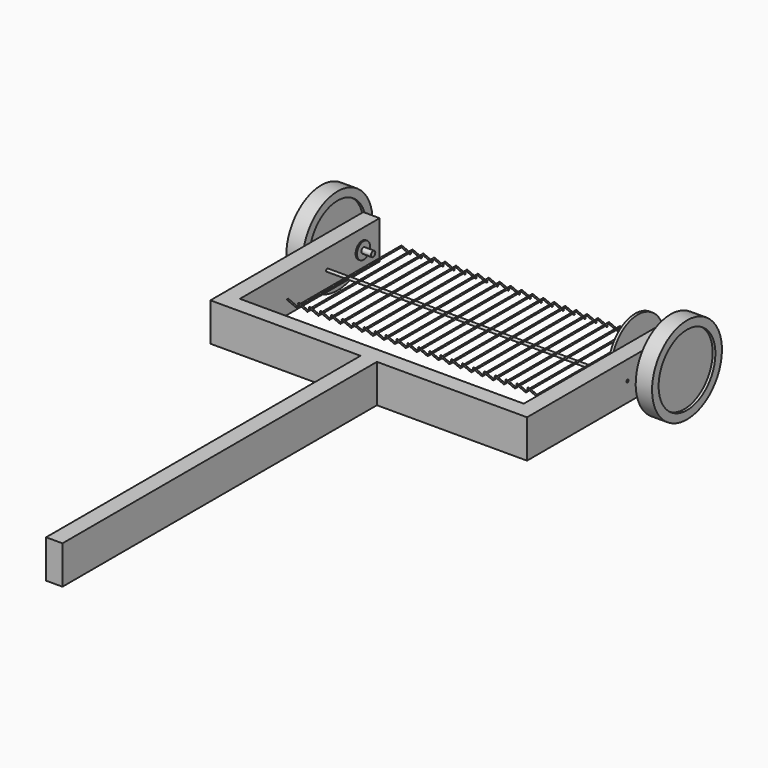
from build123d import *

# Parameters (mm, degrees)
F1_DEPTH       = 44.45
F2_R           = 3.175
F3_DEPTH       = 355.6
F5_R           = 1.5875
F12_R          = 76.2
F13_DEPTH      = 6.35
F14_R          = 3.175
F14_R_2        = 6.35
F15_DEPTH      = 368.3
F15_DEPTH_BACK = 368.3


with BuildPart() as f1:
    # F0 (on Top) → F1 (new body, symmetric)
    with BuildSketch(Plane.XY):
        Polygon((-330.2, 152.4), (-368.3, 152.4), (-368.3, -292.1), (-19.05, -292.1), (-19.05, -1206.5), (19.05, -1206.5), (19.05, -292.1), (368.3, -292.1), (368.3, 152.4), (330.2, 152.4), (330.2, -254), (-330.2, -254), align=None)
    extrude(amount=F1_DEPTH, both=True)

    # F14 (on Right) → F15 (cut, two sides)
    with BuildSketch(Plane.YZ) as f15_sk:
        Circle(F14_R)
        with Locations((101.6, 0)):
            Circle(F14_R_2)
    extrude(amount=-F15_DEPTH, mode=Mode.SUBTRACT)
    extrude(f15_sk.sketch, amount=F15_DEPTH_BACK, mode=Mode.SUBTRACT)


with BuildPart() as f3:
    # F2 (on Right) → F3 (new body, symmetric)
    with BuildSketch(Plane.YZ):
        Circle(F2_R)
    extrude(amount=F3_DEPTH, both=True)

    # F6: sweep along a path in F4
    with BuildLine(Plane.YZ) as f6_path:
        Line((177.8, -22.225), (152.4, 3.175))
        Line((152.4, 3.175), (0, 3.175))
    # F5 (on Front) → F6 (sweep)
    with BuildSketch(Plane.XZ):
        with Locations((0, 3.175)):
            Circle(F5_R)
        with Locations((25.4, 3.175)):
            Circle(F5_R)
        with Locations((50.8, 3.175)):
            Circle(F5_R)
        with Locations((76.2, 3.175)):
            Circle(F5_R)
        with Locations((101.6, 3.175)):
            Circle(F5_R)
        with Locations((127, 3.175)):
            Circle(F5_R)
        with Locations((152.4, 3.175)):
            Circle(F5_R)
        with Locations((177.8, 3.175)):
            Circle(F5_R)
        with Locations((203.2, 3.175)):
            Circle(F5_R)
        with Locations((228.6, 3.175)):
            Circle(F5_R)
        with Locations((254, 3.175)):
            Circle(F5_R)
        with Locations((279.4, 3.175)):
            Circle(F5_R)
        with Locations((-25.4, 3.175)):
            Circle(F5_R)
        with Locations((-50.8, 3.175)):
            Circle(F5_R)
        with Locations((-76.2, 3.175)):
            Circle(F5_R)
        with Locations((-101.6, 3.175)):
            Circle(F5_R)
        with Locations((-127, 3.175)):
            Circle(F5_R)
        with Locations((-152.4, 3.175)):
            Circle(F5_R)
        with Locations((-177.8, 3.175)):
            Circle(F5_R)
        with Locations((-203.2, 3.175)):
            Circle(F5_R)
        with Locations((-228.6, 3.175)):
            Circle(F5_R)
        with Locations((-254, 3.175)):
            Circle(F5_R)
        with Locations((-279.4, 3.175)):
            Circle(F5_R)
    sweep(path=f6_path.line, transition=Transition.RIGHT)

    # F8: sweep along a path in F7
    with BuildLine(Plane.YZ) as f8_path:
        Line((0, 3.175), (-152.4, 3.175))
        Line((-152.4, 3.175), (-177.8, 28.575))
    # F5 (on Front) → F8 (sweep)
    with BuildSketch(Plane.XZ):
        with Locations((0, 3.175)):
            Circle(F5_R)
        with Locations((25.4, 3.175)):
            Circle(F5_R)
        with Locations((50.8, 3.175)):
            Circle(F5_R)
        with Locations((76.2, 3.175)):
            Circle(F5_R)
        with Locations((101.6, 3.175)):
            Circle(F5_R)
        with Locations((127, 3.175)):
            Circle(F5_R)
        with Locations((152.4, 3.175)):
            Circle(F5_R)
        with Locations((177.8, 3.175)):
            Circle(F5_R)
        with Locations((203.2, 3.175)):
            Circle(F5_R)
        with Locations((228.6, 3.175)):
            Circle(F5_R)
        with Locations((254, 3.175)):
            Circle(F5_R)
        with Locations((279.4, 3.175)):
            Circle(F5_R)
        with Locations((-25.4, 3.175)):
            Circle(F5_R)
        with Locations((-50.8, 3.175)):
            Circle(F5_R)
        with Locations((-76.2, 3.175)):
            Circle(F5_R)
        with Locations((-101.6, 3.175)):
            Circle(F5_R)
        with Locations((-127, 3.175)):
            Circle(F5_R)
        with Locations((-152.4, 3.175)):
            Circle(F5_R)
        with Locations((-177.8, 3.175)):
            Circle(F5_R)
        with Locations((-203.2, 3.175)):
            Circle(F5_R)
        with Locations((-228.6, 3.175)):
            Circle(F5_R)
        with Locations((-254, 3.175)):
            Circle(F5_R)
        with Locations((-279.4, 3.175)):
            Circle(F5_R)
    sweep(path=f8_path.line, transition=Transition.RIGHT)


with BuildPart() as f11:
    # F10 (on offset) → F11 (revolve)
    with BuildSketch(Plane.XZ.offset(-101.6)):
        Polygon((425.45, 82.55), (425.45, 101.6), (387.35, 101.6), (387.35, 82.55), (393.7, 82.55), (393.7, 6.35), (371.475, 6.35), (371.475, 19.05), (368.3, 19.05), (368.3, 6.35), (330.2, 6.35), (330.2, 19.05), (327.025, 19.05), (327.025, 6.35), (304.8, 6.35), (304.8, 0), (393.7, 0), (419.1, 0), (419.1, 82.55), align=None)
    revolve(axis=Axis((0, 101.6, 0), (-1, 0, 0)))


with BuildPart() as f11b:
    # F10 (on offset) → F11, piece 2 (revolve)
    with BuildSketch(Plane.XZ.offset(-101.6)):
        Polygon((-425.45, 101.6), (-425.45, 82.55), (-419.1, 82.55), (-419.1, 0), (-393.7, 0), (-304.8, 0), (-304.8, 6.35), (-327.025, 6.35), (-327.025, 19.05), (-330.2, 19.05), (-330.2, 6.35), (-368.3, 6.35), (-368.3, 19.05), (-371.475, 19.05), (-371.475, 6.35), (-393.7, 6.35), (-393.7, 82.55), (-387.35, 82.55), (-387.35, 101.6), align=None)
    revolve(axis=Axis((0, 101.6, 0), (-1, 0, 0)))


with BuildPart() as f13:
    # F12 (on face) → F13 (new body)
    with BuildSketch(Plane(origin=(304.8, 0, 0), x_dir=(0, -1, 0), z_dir=(-1, 0, 0))):
        with Locations((-101.6, 0)):
            Circle(F12_R)
    extrude(amount=-F13_DEPTH)


with BuildPart() as f13b:
    # F12 (on face) → F13, piece 2 (new body)
    with BuildSketch(Plane(origin=(304.8, 0, 0), x_dir=(0, -1, 0), z_dir=(-1, 0, 0))):
        with BuildLine():
            ThreePointArc((25.4, 0), (0, 25.4), (-25.4, 0))
            ThreePointArc((-25.4, 0), (0, -25.4), (25.4, 0))
        make_face()
    extrude(amount=-F13_DEPTH)


solid = Compound([f1.part, f3.part, f11.part, f11b.part, f13.part, f13b.part])
